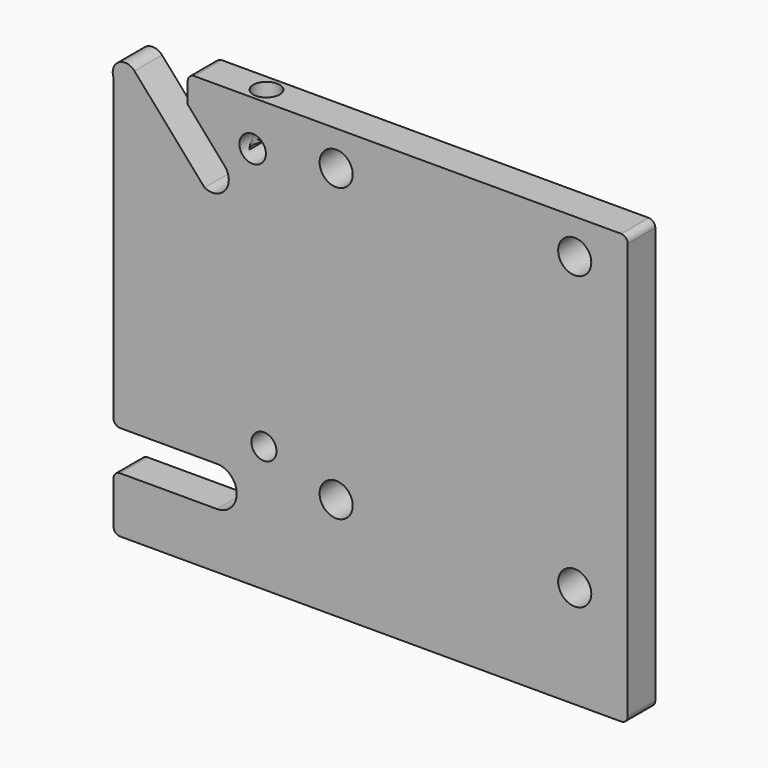
from build123d import *

# Parameters (mm, degrees)
F1_DEPTH = 13
F2_R     = 5
F2_R_2   = 6.25
F2_R_3   = 4.75
F3_DEPTH = 13
F4_R     = 5
F5_DEPTH = 20


with BuildPart() as f1:
    # F0 (on Front) → F1 (new body)
    with BuildSketch(Plane.XZ):
        with BuildLine():
            Line((-64.112372, -88.187284), (-64.112372, -104.187284))
            ThreePointArc((-64.112372, -104.187284), (-63.380139, -105.955051), (-61.612372, -106.687284))
            Line((-61.612372, -106.687284), (127.387628, -106.687284))
            ThreePointArc((127.387628, -106.687284), (129.155395, -105.955051), (129.887628, -104.187284))
            Line((129.887628, -104.187284), (129.887628, 52.812716))
            ThreePointArc((129.887628, 52.812716), (129.155395, 54.580483), (127.387628, 55.312716))
            Line((127.387628, 55.312716), (-33.612372, 55.312716))
            ThreePointArc((-33.612372, 55.312716), (-35.380139, 54.580483), (-36.112372, 52.812716))
            Line((-36.112372, 52.812716), (-36.112372, 45.078386))
            Line((-36.112372, 45.078386), (-22.16479, 29.185242))
            ThreePointArc((-22.16479, 29.185242), (-21.940482, 21.210769), (-29.735159, 19.512077))
            Line((-29.735159, 19.512077), (-56.202239, 49.671077))
            ThreePointArc((-56.202239, 49.671077), (-62.122946, 50.60339), (-64.112372, 44.949527))
            Line((-64.112372, 44.949527), (-64.112372, -36.543813))
            Line((-64.112372, -36.543813), (-64.112372, -68.187284))
            ThreePointArc((-64.112372, -68.187284), (-63.380139, -69.955051), (-61.612372, -70.687284))
            Line((-61.612372, -70.687284), (-53.58046, -70.687284))
            Line((-53.58046, -70.687284), (-25.112372, -70.687284))
            ThreePointArc((-25.112372, -70.687284), (-17.612372, -78.187284), (-25.112372, -85.687284))
            Line((-25.112372, -85.687284), (-61.612372, -85.687284))
            ThreePointArc((-61.612372, -85.687284), (-63.380139, -86.419517), (-64.112372, -88.187284))
        make_face()
    extrude(amount=F1_DEPTH)

    # F2 (on face) → F3 (cut)
    with BuildSketch(Plane.XZ.offset(13)):
        with Locations((-11.612372, 38.312716)):
            Circle(F2_R)
        with Locations((19.887628, 42.062716)):
            Circle(F2_R_2)
        with Locations((109.887628, 42.062716)):
            Circle(F2_R_2)
        with Locations((109.887628, -67.937284)):
            Circle(F2_R_2)
        with Locations((19.887628, -67.937284)):
            Circle(F2_R_2)
        with Locations((-7.362372, -59.187284)):
            Circle(F2_R_3)
    extrude(amount=-F3_DEPTH, mode=Mode.SUBTRACT)

    # F4 (on face) → F5 (cut)
    with BuildSketch(Plane.XY.offset(55.312716)):
        with Locations((-11.612372, -6.5)):
            Circle(F4_R)
    extrude(amount=-F5_DEPTH, mode=Mode.SUBTRACT)


solid = f1.part
